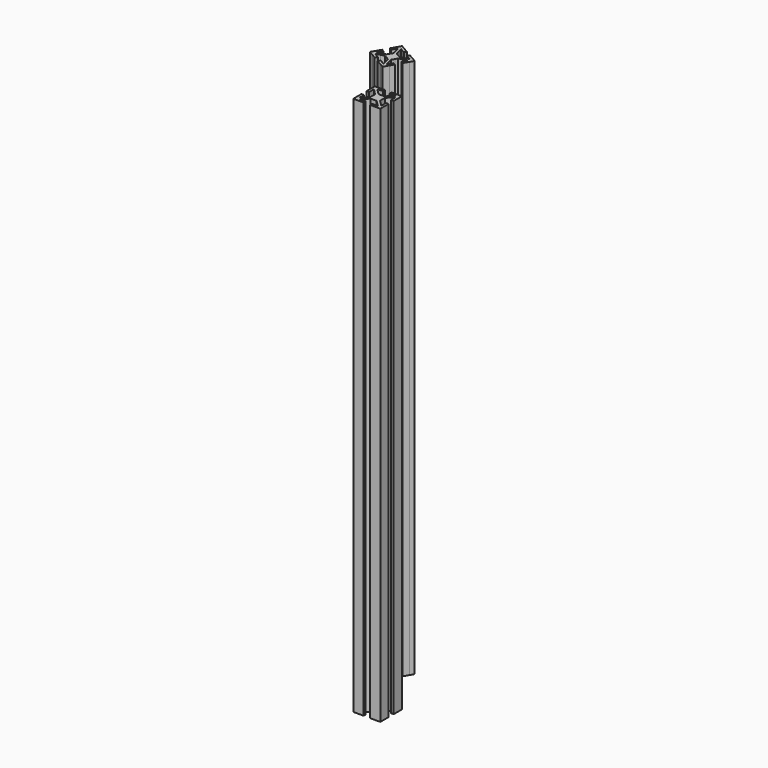
from build123d import *

# Parameters (mm, degrees)
F1_DEPTH = 300
F3_DEPTH = 300


with BuildPart() as f1:
    # F0 (on Top) → F1 (new body)
    with BuildSketch(Plane.XY):
        Polygon((4.984765951, -7.4999849378), (7.5000127, -7.4999849378), (7.5000127, -4.3013247407), (7.5000127, -1.7880917708), (6.7061124626, -1.7880917708), (6.0823334515, -1.7880917708), (6.0823334515, -3.6166280251), (6.0823334515, -5.0533354194), (4.1923255558, -3.1633352009), (2.7073193521, -1.6783343121), (2.7073193521, 0.2014163021), (2.7073193521, 1.6783632554), (4.5973272478, 3.5683652456), (6.0823334515, 5.0533667249), (6.0823334515, 3.2248275179), (6.0823334515, 1.7881189425), (6.8762336889, 1.7881189425), (7.5000127, 1.7881189425), (7.5000127, 4.9867779585), (7.5000127, 7.5000103378), (4.3013519123, 7.5000103378), (1.7881189425, 7.5000103378), (1.7881189425, 6.7137908075), (1.7881189425, 6.0960466378), (3.6115321662, 6.0960466378), (5.0442131834, 6.0960466378), (3.1465358011, 4.1983674838), (1.6555030237, 2.7073335253), (-0.1960830291, 2.7073335253), (-1.6509014435, 2.7073335253), (-3.5485859125, 4.6050126793), (-5.0396234142, 6.0960466378), (-3.2162119622, 6.0960466378), (-1.7835315355, 6.0960466378), (-1.7835315355, 6.8822661681), (-1.7835315355, 7.5000103378), (-4.9847470471, 7.5000103378), (-7.4999873, 7.5000103378), (-7.4999873, 4.3013507312), (-7.4999873, 1.7881189425), (-6.7060858815, 1.7881189425), (-6.0823062799, 1.7881189425), (-6.0823062799, 3.6166575589), (-6.0823062799, 5.0533667249), (-4.1923060614, 3.1633647348), (-2.7073057631, 1.6783632554), (-2.7073057631, -0.2013873588), (-2.7073057631, -1.6783343121), (-4.5973059816, -3.5683351212), (-6.0823062799, -5.0533354194), (-6.0823062799, -3.2247991652), (-6.0823062799, -1.7880917708), (-6.8762076984, -1.7880917708), (-7.4999873, -1.7880917708), (-7.4999873, -4.986751968), (-7.4999873, -7.4999849378), (-4.3013335989, -7.4999849378), (-1.7881059441, -7.4999849378), (-1.7881059441, -6.7137618642), (-1.7881059441, -6.0960147417), (-3.6115162151, -6.0960147417), (-5.0441954606, -6.0960147417), (-3.1465121727, -4.1983373594), (-1.6554752615, -2.707304582), (0.1961113819, -2.707304582), (1.6509292057, -2.707304582), (3.5486059975, -4.6049825549), (5.0396375938, -6.0960147417), (3.2162249606, -6.0960147417), (1.7835433528, -6.0960147417), (1.7835433528, -6.8822378153), (1.7835433528, -7.4999849378), align=None)
    extrude(amount=F1_DEPTH)


with BuildPart() as f3:
    # F2 (on Top) → F3 (new body)
    with BuildSketch(Plane.XY):
        Polygon((-28.0976640869, 33.5784542243), (-29.3552874614, 31.4001866429), (-26.5851664726, 29.8008565443), (-24.4086428751, 28.5442400594), (-24.0116927564, 29.2317778331), (-23.6998032509, 29.771986303), (-25.2833620988, 30.6862544301), (-26.5275872001, 31.4046081273), (-23.9457950499, 32.0964028691), (-21.9172434537, 32.6399555219), (-20.289331669, 31.7000802148), (-19.0102580873, 30.9616067381), (-18.3184722985, 28.379810892), (-17.7749263946, 26.3512570551), (-19.3584877997, 27.2655266586), (-20.6027139238, 27.9838809464), (-20.9996640426, 27.2963431727), (-21.3115535481, 26.7561347028), (-18.5414335822, 25.1568051947), (-16.3649104961, 23.9001890051), (-14.7655801023, 26.6703105053), (-13.5089636174, 28.8468341028), (-14.1898497035, 29.239943868), (-14.7248318476, 29.5488159528), (-15.6365384594, 27.9696937795), (-16.352878968, 26.7289556231), (-17.0474786324, 29.3212320214), (-17.5932355297, 31.3580212637), (-16.6674425033, 32.9615418227), (-15.9400332961, 34.2214515275), (-13.347752706, 34.916054909), (-11.3109606692, 35.4618142843), (-12.2226663952, 33.8826936452), (-12.9390066085, 32.6419560002), (-12.2581205224, 32.2488462351), (-11.7231383783, 31.9399741502), (-10.1225306226, 34.7123081062), (-8.8649104961, 36.8905700619), (-11.6350309734, 38.4898998652), (-13.8115535481, 39.7465157595), (-14.2085042574, 39.058976963), (-14.5203940582, 38.5187679816), (-12.9368331645, 37.6044986734), (-11.6926065289, 36.8861440904), (-14.2743963749, 36.1943568831), (-16.3029455297, 35.6508096399), (-17.9308573144, 36.590684947), (-19.2099308961, 37.3291584237), (-19.9017195006, 39.9109470306), (-20.4452673344, 41.9394951626), (-18.8617084865, 41.0252270355), (-17.6174833852, 40.3068733383), (-17.2205326759, 40.9944121348), (-16.9086428751, 41.5346211162), (-19.6787638639, 43.1339512148), (-21.8552874614, 44.3905676997), (-23.4546143119, 41.6204523366), (-24.7112281394, 39.443933342), (-24.0303389846, 39.0508218052), (-23.4953542834, 38.741948244), (-22.5836491479, 40.3210678602), (-21.8673095252, 41.5618044823), (-21.1727143478, 38.9695238555), (-20.6269605403, 36.9327316237), (-21.552753862, 35.3292105533), (-22.280162774, 34.0693013599), (-24.8724385026, 33.3747040365), (-26.9092260524, 32.8289488897), (-25.9975197358, 34.4080705516), (-25.2811789319, 35.6488092195), (-25.9620680866, 36.0419207562), (-26.4970527878, 36.3507943175), align=None)
    extrude(amount=F3_DEPTH)


solid = Compound([f1.part, f3.part])
